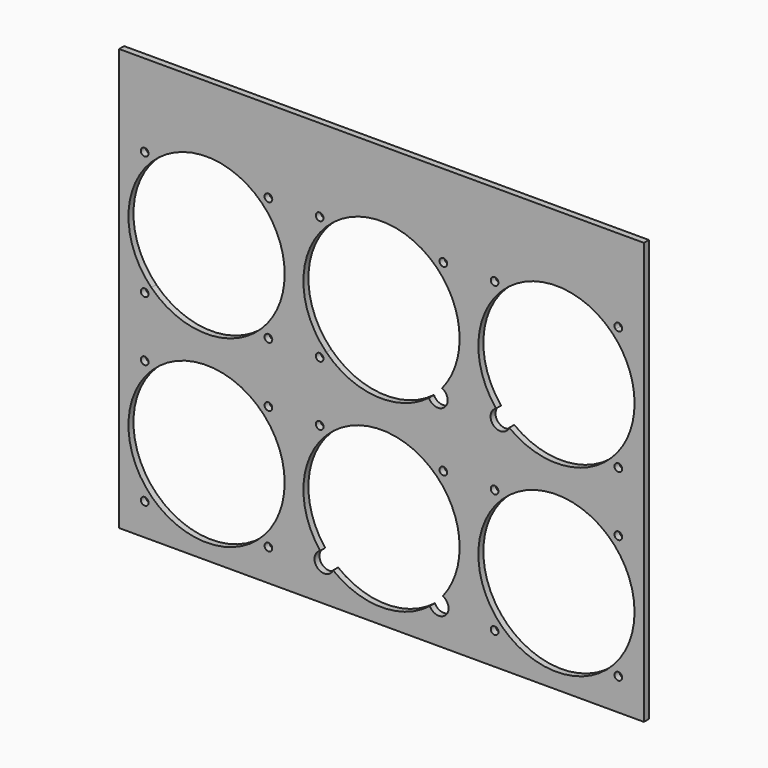
from build123d import *

# Parameters (mm, degrees)
F0_W     = 266.7
F0_H     = 214.3125
F2_DEPTH = 3.175
F3_R     = 39.6875
F3_R_2   = 1.9558
F4_DEPTH = 3.175


with BuildPart() as f2:
    # F0 (on Front) → F2 (new body)
    with BuildSketch(Plane.XZ):
        with Locations((279.4, 218.28125)):
            Rectangle(F0_W, F0_H)
    extrude(amount=F2_DEPTH)

    # F3 (on face) → F4 (cut)
    with BuildSketch(Plane.XZ.offset(3.175)):
        with BuildLine():
            Line((279.4, 158.75), (251.3366996217, 186.8133003783))
            ThreePointArc((251.3366996217, 186.8133003783), (239.7808423583, 161.0780902065), (248.2430874051, 134.1665817306))
            ThreePointArc((248.2430874051, 134.1665817306), (251.1847816274, 134.5360877464), (253.811882715, 133.161882715))
            Line((253.811882715, 133.161882715), (279.4, 158.75))
        make_face()
        with BuildLine():
            Line((279.4, 158.75), (307.4633003783, 186.8133003783))
            ThreePointArc((307.4633003783, 186.8133003783), (279.4, 198.4375), (251.3366996217, 186.8133003783))
            Line((251.3366996217, 186.8133003783), (279.4, 158.75))
        make_face()
        with BuildLine():
            Line((190.5, 252.095), (218.5633003783, 280.1583003783))
            ThreePointArc((218.5633003783, 280.1583003783), (190.5, 291.7825), (162.4366996217, 280.1583003783))
            Line((162.4366996217, 280.1583003783), (190.5, 252.095))
        make_face()
        with BuildLine():
            Line((190.5, 252.095), (162.4366996217, 280.1583003783))
            ThreePointArc((162.4366996217, 280.1583003783), (150.8125, 252.095), (162.4366996217, 224.0316996217))
            Line((162.4366996217, 224.0316996217), (190.5, 252.095))
        make_face()
        with BuildLine():
            ThreePointArc((162.4366996217, 224.0316996217), (190.5, 212.4075), (218.5633003783, 224.0316996217))
            Line((218.5633003783, 224.0316996217), (190.5, 252.095))
            Line((190.5, 252.095), (162.4366996217, 224.0316996217))
        make_face()
        with BuildLine():
            ThreePointArc((218.5633003783, 224.0316996217), (227.1664689465, 236.907251278), (230.1875, 252.095))
            ThreePointArc((230.1875, 252.095), (227.1664689465, 267.282748722), (218.5633003783, 280.1583003783))
            Line((218.5633003783, 280.1583003783), (190.5, 252.095))
            Line((190.5, 252.095), (218.5633003783, 224.0316996217))
        make_face()
        with Locations((368.3, 158.75)):
            Circle(F3_R)
        with BuildLine():
            ThreePointArc((310.1831682173, 227.0451654545), (316.7952179087, 238.8023202922), (319.0875, 252.095))
            ThreePointArc((319.0875, 252.095), (316.0664689465, 267.282748722), (307.4633003783, 280.1583003783))
            Line((307.4633003783, 280.1583003783), (251.3366996217, 224.0316996217))
            ThreePointArc((251.3366996217, 224.0316996217), (276.7745151129, 212.4944383202), (303.5128082548, 220.5724662453))
            ThreePointArc((303.5128082548, 220.5724662453), (304.6021260005, 226.1232613468), (310.1831682173, 227.0451654545))
        make_face()
        with BuildLine():
            ThreePointArc((313.017829269, 222.5629952944), (312.2496966444, 225.2146529185), (310.1831682173, 227.0451654545))
            ThreePointArc((310.1831682173, 227.0451654545), (307.0381261479, 223.6128715809), (303.5128082548, 220.5724662453))
            ThreePointArc((303.5128082548, 220.5724662453), (309.0737463727, 217.7073895038), (313.017829269, 222.5629952944))
        make_face()
        with Locations((190.5, 158.75)):
            Circle(F3_R)
        with BuildLine():
            Line((304.988117285, 133.161882715), (279.4, 158.75))
            Line((279.4, 158.75), (253.811882715, 133.161882715))
            ThreePointArc((253.811882715, 133.161882715), (254.8872787861, 131.552438758), (255.2649076677, 129.6539701677))
            ThreePointArc((255.2649076677, 129.6539701677), (255.1515306266, 128.5994283351), (254.8165817306, 127.5930874051))
            ThreePointArc((254.8165817306, 127.5930874051), (279.4, 119.0625), (303.9834182694, 127.5930874051))
            ThreePointArc((303.9834182694, 127.5930874051), (303.6139122536, 130.5347816274), (304.988117285, 133.161882715))
        make_face()
        with BuildLine():
            ThreePointArc((310.5569125949, 134.1665817306), (316.8942503916, 145.7392796579), (319.0875, 158.75))
            ThreePointArc((319.0875, 158.75), (316.0664689465, 173.937748722), (307.4633003783, 186.8133003783))
            Line((307.4633003783, 186.8133003783), (279.4, 158.75))
            Line((279.4, 158.75), (304.988117285, 133.161882715))
            ThreePointArc((304.988117285, 133.161882715), (307.6152183726, 134.5360877464), (310.5569125949, 134.1665817306))
        make_face()
        with BuildLine():
            ThreePointArc((396.3633003783, 224.0316996217), (404.9664689465, 236.907251278), (407.9875, 252.095))
            ThreePointArc((407.9875, 252.095), (404.9748663618, 267.2624596947), (396.3943367324, 280.1272296619))
            Line((396.3943367324, 280.1272296619), (368.5898315171, 251.8051684829))
            Line((368.5898315171, 251.8051684829), (396.3633003783, 224.0316996217))
        make_face()
        with BuildLine():
            Line((368.5898315171, 251.8051684829), (396.3943367324, 280.1272296619))
            ThreePointArc((396.3943367324, 280.1272296619), (368.3219581687, 291.7824939255), (340.2366996217, 280.1583003783))
            Line((340.2366996217, 280.1583003783), (368.5898315171, 251.8051684829))
        make_face()
        with BuildLine():
            ThreePointArc((338.8249035763, 283.5258964237), (335.0621799866, 284.2743486808), (338.2520630189, 282.1429369811))
            ThreePointArc((338.2520630189, 282.1429369811), (338.6760271659, 282.7774441667), (338.8249035763, 283.5258964237))
        make_face()
        with BuildLine():
            ThreePointArc((161.0249035763, 283.5258964237), (157.2621799866, 284.2743486808), (160.4520630189, 282.1429369811))
            ThreePointArc((160.4520630189, 282.1429369811), (160.8760271659, 282.7774441667), (161.0249035763, 283.5258964237))
        make_face()
        with BuildLine():
            ThreePointArc((251.3366996217, 130.6866996217), (249.7388165944, 132.3812333389), (248.2430874051, 134.1665817306))
            ThreePointArc((248.2430874051, 134.1665817306), (246.7960576204, 126.1460576204), (254.8165817306, 127.5930874051))
            ThreePointArc((254.8165817306, 127.5930874051), (253.0312333389, 129.0888165944), (251.3366996217, 130.6866996217))
        make_face()
        with BuildLine():
            ThreePointArc((253.811882715, 133.161882715), (251.1847816274, 134.5360877464), (248.2430874051, 134.1665817306))
            ThreePointArc((248.2430874051, 134.1665817306), (249.7388165944, 132.3812333389), (251.3366996217, 130.6866996217))
            Line((251.3366996217, 130.6866996217), (253.811882715, 133.161882715))
        make_face()
        with BuildLine():
            ThreePointArc((307.4633003783, 130.6866996217), (309.0611834056, 132.3812333389), (310.5569125949, 134.1665817306))
            ThreePointArc((310.5569125949, 134.1665817306), (307.6152183726, 134.5360877464), (304.988117285, 133.161882715))
            Line((304.988117285, 133.161882715), (307.4633003783, 130.6866996217))
        make_face()
        with BuildLine():
            ThreePointArc((255.2649076677, 129.6539701677), (254.8872787861, 131.552438758), (253.811882715, 133.161882715))
            Line((253.811882715, 133.161882715), (251.3366996217, 130.6866996217))
            ThreePointArc((251.3366996217, 130.6866996217), (253.0312333389, 129.0888165944), (254.8165817306, 127.5930874051))
            ThreePointArc((254.8165817306, 127.5930874051), (255.1515306266, 128.5994283351), (255.2649076677, 129.6539701677))
        make_face()
        with BuildLine():
            ThreePointArc((337.6212215343, 226.9174264851), (336.324666049, 218.8688860877), (344.3175587388, 220.4731694489))
            ThreePointArc((344.3175587388, 220.4731694489), (342.509984, 221.9292457252), (340.7906217682, 223.4885013406))
            ThreePointArc((340.7906217682, 223.4885013406), (339.1554503058, 225.15631259), (337.6212215343, 226.9174264851))
        make_face()
        with BuildLine():
            ThreePointArc((340.7906217682, 223.4885013406), (342.509984, 221.9292457252), (344.3175587388, 220.4731694489))
            ThreePointArc((344.3175587388, 220.4731694489), (344.6225111503, 221.4373984368), (344.7255898037, 222.4434343734))
            ThreePointArc((344.7255898037, 222.4434343734), (344.339159381, 224.3630139833), (343.2400698274, 225.9835436817))
            Line((343.2400698274, 225.9835436817), (340.7906217682, 223.4885013406))
        make_face()
        with BuildLine():
            ThreePointArc((303.9834182694, 127.5930874051), (305.7687666611, 129.0888165944), (307.4633003783, 130.6866996217))
            Line((307.4633003783, 130.6866996217), (304.988117285, 133.161882715))
            ThreePointArc((304.988117285, 133.161882715), (303.6139122536, 130.5347816274), (303.9834182694, 127.5930874051))
        make_face()
        with BuildLine():
            ThreePointArc((343.2400698274, 225.9835436817), (340.5780288776, 227.3372385611), (337.6212215343, 226.9174264851))
            ThreePointArc((337.6212215343, 226.9174264851), (339.1554503058, 225.15631259), (340.7906217682, 223.4885013406))
            Line((340.7906217682, 223.4885013406), (343.2400698274, 225.9835436817))
        make_face()
        with BuildLine():
            ThreePointArc((303.5128082548, 220.5724662453), (307.0381261479, 223.6128715809), (310.1831682173, 227.0451654545))
            ThreePointArc((310.1831682173, 227.0451654545), (304.6021260005, 226.1232613468), (303.5128082548, 220.5724662453))
        make_face()
        with BuildLine():
            ThreePointArc((312.7866964237, 283.5258964237), (310.0824441667, 285.3328200134), (309.4479369811, 282.1429369811))
            ThreePointArc((309.4479369811, 282.1429369811), (311.5793486808, 281.7189728341), (312.7866964237, 283.5258964237))
        make_face()
        with BuildLine():
            ThreePointArc((313.4569673323, 129.6539701677), (312.6694463858, 132.3360393595), (310.5569125949, 134.1665817306))
            ThreePointArc((310.5569125949, 134.1665817306), (309.0611834056, 132.3812333389), (307.4633003783, 130.6866996217))
            ThreePointArc((307.4633003783, 130.6866996217), (305.7687666611, 129.0888165944), (303.9834182694, 127.5930874051))
            ThreePointArc((303.9834182694, 127.5930874051), (309.5505716649, 124.8064097089), (313.4569673323, 129.6539701677))
        make_face()
        with BuildLine():
            ThreePointArc((223.8866964237, 283.5258964237), (221.1824441667, 285.3328200134), (220.5479369811, 282.1429369811))
            ThreePointArc((220.5479369811, 282.1429369811), (222.6793486808, 281.7189728341), (223.8866964237, 283.5258964237))
        make_face()
        with Locations((221.9308964237, 190.1808964237)):
            Circle(F3_R_2)
        with Locations((399.7308964237, 190.1808964237)):
            Circle(F3_R_2)
        with Locations((159.0691035763, 127.3191035763)):
            Circle(F3_R_2)
        with Locations((336.8691035763, 127.3191035763)):
            Circle(F3_R_2)
        with BuildLine():
            ThreePointArc((401.6866964237, 220.6641035763), (400.4793486808, 222.4710271659), (398.3479369811, 222.0470630189))
            ThreePointArc((398.3479369811, 222.0470630189), (398.9824441667, 218.8571799866), (401.6866964237, 220.6641035763))
        make_face()
        with Locations((221.9308964237, 127.3191035763)):
            Circle(F3_R_2)
        with BuildLine():
            ThreePointArc((223.8866964237, 220.6641035763), (222.6793486808, 222.4710271659), (220.5479369811, 222.0470630189))
            ThreePointArc((220.5479369811, 222.0470630189), (221.1824441667, 218.8571799866), (223.8866964237, 220.6641035763))
        make_face()
        with BuildLine():
            ThreePointArc((401.6866964237, 283.5258964237), (398.9741213583, 285.3293500939), (398.3607478192, 282.13024373))
            ThreePointArc((398.3607478192, 282.13024373), (400.4876714892, 281.7224427536), (401.6866964237, 283.5258964237))
        make_face()
        with Locations((399.7308964237, 127.3191035763)):
            Circle(F3_R_2)
        with Locations((159.0691035763, 190.1808964237)):
            Circle(F3_R_2)
        with Locations((336.8691035763, 190.1808964237)):
            Circle(F3_R_2)
        with Locations((247.9691035763, 283.5258964237)):
            Circle(F3_R_2)
        with BuildLine():
            ThreePointArc((249.9249035763, 220.6641035763), (249.7760271659, 221.4125558333), (249.3520630189, 222.0470630189))
            ThreePointArc((249.3520630189, 222.0470630189), (246.1621799866, 219.9156513192), (249.9249035763, 220.6641035763))
        make_face()
        with BuildLine():
            ThreePointArc((161.0249035763, 220.6641035763), (160.8760271659, 221.4125558333), (160.4520630189, 222.0470630189))
            ThreePointArc((160.4520630189, 222.0470630189), (157.2621799866, 219.9156513192), (161.0249035763, 220.6641035763))
        make_face()
        with BuildLine():
            ThreePointArc((249.9249035763, 190.1808964237), (246.1621799866, 190.9293486808), (249.3520630189, 188.7979369811))
            ThreePointArc((249.3520630189, 188.7979369811), (249.7760271659, 189.4324441667), (249.9249035763, 190.1808964237))
        make_face()
        with BuildLine():
            ThreePointArc((312.7866964237, 190.1808964237), (310.0824441667, 191.9878200134), (309.4479369811, 188.7979369811))
            ThreePointArc((309.4479369811, 188.7979369811), (311.5793486808, 188.3739728341), (312.7866964237, 190.1808964237))
        make_face()
        with BuildLine():
            Line((251.3366996217, 224.0316996217), (307.4633003783, 280.1583003783))
            ThreePointArc((307.4633003783, 280.1583003783), (251.3366996217, 280.1583003783), (251.3366996217, 224.0316996217))
        make_face()
        with BuildLine():
            Line((368.5898315171, 251.8051684829), (340.2366996217, 280.1583003783))
            ThreePointArc((340.2366996217, 280.1583003783), (328.6603024739, 254.0423151488), (337.6212215343, 226.9174264851))
            ThreePointArc((337.6212215343, 226.9174264851), (340.5780288776, 227.3372385611), (343.2400698274, 225.9835436817))
            Line((343.2400698274, 225.9835436817), (368.5898315171, 251.8051684829))
        make_face()
        with BuildLine():
            ThreePointArc((344.3175587388, 220.4731694489), (371.007237897, 212.4999432477), (396.3633003783, 224.0316996217))
            Line((396.3633003783, 224.0316996217), (368.5898315171, 251.8051684829))
            Line((368.5898315171, 251.8051684829), (343.2400698274, 225.9835436817))
            ThreePointArc((343.2400698274, 225.9835436817), (344.339159381, 224.3630139833), (344.7255898037, 222.4434343734))
            ThreePointArc((344.7255898037, 222.4434343734), (344.6225111503, 221.4373984368), (344.3175587388, 220.4731694489))
        make_face()
    extrude(amount=-F4_DEPTH, mode=Mode.SUBTRACT)


solid = f2.part
